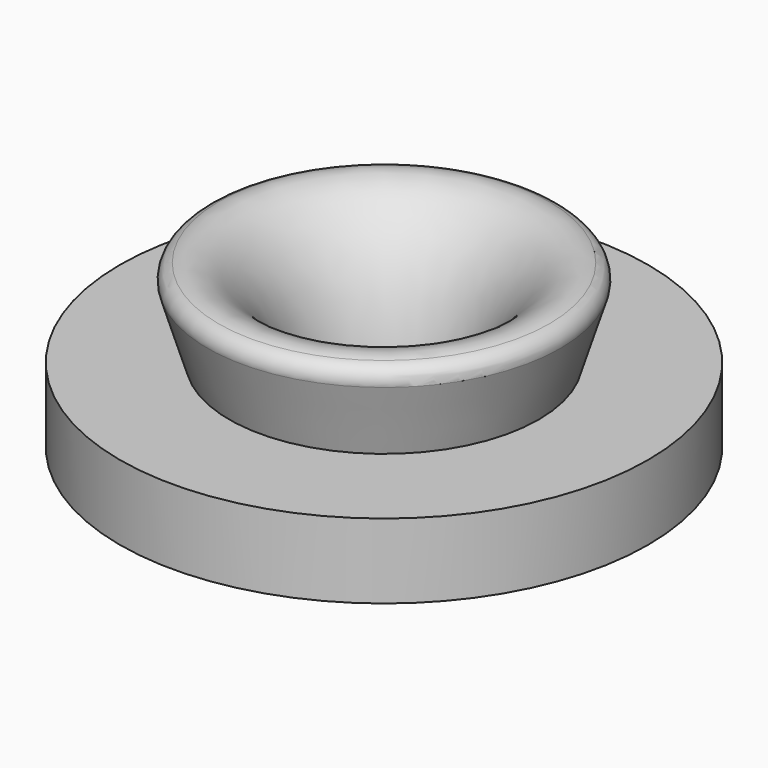
from build123d import *


with BuildPart() as f1:
    # F0 (on Front) → F1 (revolve)
    with BuildSketch(Plane.XZ):
        with BuildLine():
            add(Edge.make_bspline(
                [(8.255, 0), (8.2216796153, 2.3076537954), (8.8350885951, 8.5271520648), (12.1501012783, 16.3709643576), (17.4859554214, 20.2662519854), (19.6571610868, 19.3162634969)],
                knots=[0, 0, 0, 0, 0.3357963175, 0.6868837016, 1, 1, 1, 1], degree=3))
            Line((8.255, 0), (27.7114, 0))
            Line((27.7114, 0), (27.7114, 6.985))
            Line((27.7114, 6.985), (29.4894, 6.985))
            Line((29.4894, 6.985), (29.4894, 0))
            Line((29.4894, 0), (31.3944, 0))
            Line((31.3944, 0), (31.3944, 8.89))
            Line((31.3944, 8.89), (18.3997968841, 8.89))
            Line((18.3997968841, 8.89), (20.9748614579, 17.1817578375))
            ThreePointArc((20.9748614579, 17.1817578375), (20.7383933614, 18.509760988), (19.6571610868, 19.3162634969))
        make_face()
    revolve(axis=Axis((0, 0, 8.4439804778), (0, 0, 1)))


solid = f1.part
